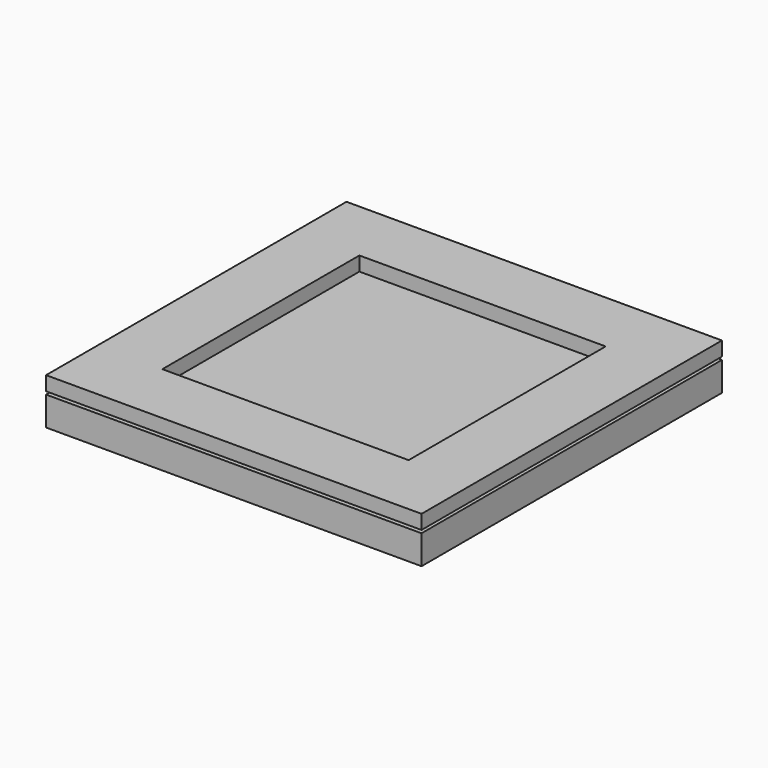
from build123d import *

# Parameters (mm, degrees)
F0_W     = 150
F0_H     = 150
F1_DEPTH = 6
F2_W     = 155
F2_H     = 155
F2_W_2   = 110
F2_H_2   = 110
F3_DEPTH = 8.255
F4_W     = 167.7
F4_H     = 167.7
F4_W_2   = 155
F4_H_2   = 155
F5_DEPTH = 12.954
F6_W     = 167.7
F6_H     = 167.7
F6_W_2   = 110
F6_H_2   = 110
F7_DEPTH = 6.35


with BuildPart() as f1:
    # F0 (on Top) → F1 (new body)
    with BuildSketch(Plane.XY):
        Rectangle(F0_W, F0_H)
    extrude(amount=F1_DEPTH)


with BuildPart() as f3:
    # F2 (on face) → F3 (new body)
    with BuildSketch(Plane(origin=(0, 0, 0), x_dir=(1, 0, 0), z_dir=(0, 0, -1))):
        Rectangle(F2_W, F2_H)
        Rectangle(F2_W_2, F2_H_2, mode=Mode.SUBTRACT)
    extrude(amount=F3_DEPTH)

    # F4 (on face) → F5 (join)
    with BuildSketch(Plane(origin=(0, 0, -8.255), x_dir=(1, 0, 0), z_dir=(0, 0, -1))):
        Rectangle(F4_W, F4_H)
        Rectangle(F4_W_2, F4_H_2, mode=Mode.SUBTRACT)
    extrude(amount=-F5_DEPTH)


with BuildPart() as f7:
    # F6 (on face) → F7 (new body)
    with BuildSketch(Plane.XY.offset(6)):
        Rectangle(F6_W, F6_H)
        Rectangle(F6_W_2, F6_H_2, mode=Mode.SUBTRACT)
    extrude(amount=F7_DEPTH)


solid = Compound([f1.part, f3.part, f7.part])
